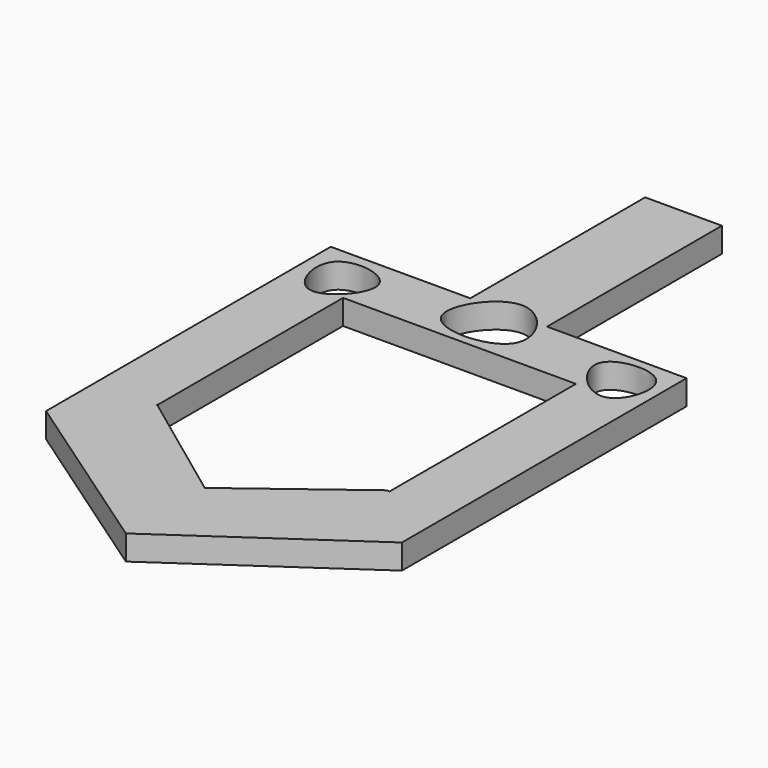
from build123d import *

# Parameters (mm, degrees)
F0_W     = 43.0784
F0_H     = 43.0784
F0_W_2   = 28.194
F0_H_2   = 28.194
F1_DEPTH = 3
F2_DEPTH = 3
F3_W     = 9.291484952
F3_H     = 26.8420688808
F4_DEPTH = 3
F6_DEPTH = 22.352
F8_DEPTH = 37.592


with BuildPart() as f1:
    # F0 (on Top) → F1 (new body)
    with BuildSketch(Plane.XY):
        Rectangle(F0_W, F0_H)
        Rectangle(F0_W_2, F0_H_2, mode=Mode.SUBTRACT)
    extrude(amount=F1_DEPTH)

    # F0 (on Top) → F2 (join)
    with BuildSketch(Plane.XY):
        Polygon((0, -36.3916456699), (21.5392, -21.5392), (-21.5392, -21.5392), align=None)
    extrude(amount=F2_DEPTH)

    # F3 (on Top) → F4 (join)
    with BuildSketch(Plane.XY):
        with Locations((0, 34.5849692822)):
            Rectangle(F3_W, F3_H)
    extrude(amount=F4_DEPTH)

    # F5 (on Top) → F6 (cut)
    with BuildSketch(Plane.XY):
        Polygon((13.937224634, -13.9372255653), (-14.1953229904, -13.9372255653), (0, -24.4544502348), align=None)
    extrude(amount=F6_DEPTH, mode=Mode.SUBTRACT)

    # F7 (on Top) → F8 (cut)
    with BuildSketch(Plane.XY):
        with BuildLine():
            add(Edge.make_bspline(
                [(0, 23.4868060797), (-2.8702715447, 23.4371938797), (-8.7230750332, 14.3130976788), (8.6871508239, 14.7943300147), (2.8315725317, 23.5357493733), (0, 23.4868060797)],
                knots=[0, 0, 0, 0, 0.3297145674, 0.6747308756, 1, 1, 1, 1], degree=3))
        make_face()
        with BuildLine():
            add(Edge.make_bspline(
                [(13.1629370153, 18.8410654664), (13.847737823, 20.7262262605), (22.2669237883, 21.4924345024), (18.5518491877, 10.0392684338), (12.4536267966, 16.8884336936), (13.1629370153, 18.8410654664)],
                knots=[0, 0, 0, 0, 0.333863774, 0.6541870513, 1, 1, 1, 1], degree=3))
        make_face()
        with BuildLine():
            add(Edge.make_bspline(
                [(-19.357258454, 19.357258454), (-17.9187135648, 20.9835638848), (-9.6064176323, 19.5614210753), (-18.3365898164, 9.788019721), (-20.7872220735, 17.74065433), (-19.357258454, 19.357258454)],
                knots=[0, 0, 0, 0, 0.3313807833, 0.6705959836, 1, 1, 1, 1], degree=3))
        make_face()
    extrude(amount=F8_DEPTH, mode=Mode.SUBTRACT)


solid = f1.part
